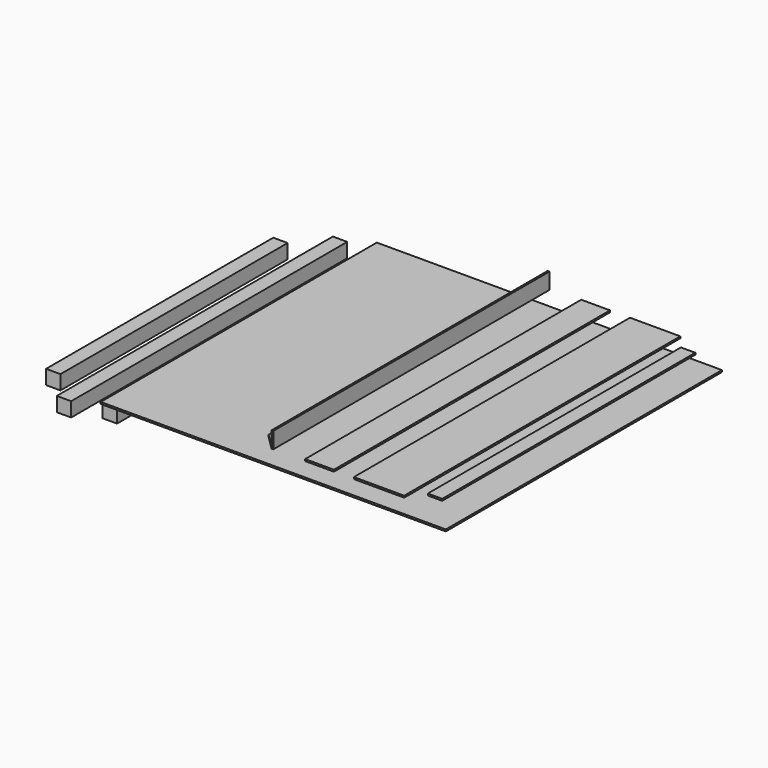
from build123d import *

# Parameters (mm, degrees)
F0_W      = 1219.2
F0_H      = 1219.2
F1_DEPTH  = 6.35
F3_W      = 177.8
F3_H      = 914.4
F4_DEPTH  = 6.35
F5_W      = 101.6
F5_H      = 914.4
F6_DEPTH  = 6.35
F7_R      = 12.7
F8_DEPTH  = 6.35
F9_W      = 50.8
F9_H      = 609.6
F10_DEPTH = 50.8
F11_W     = 50.8
F11_H     = 1219.2
F12_DEPTH = 50.8
F13_W     = 50.8
F13_H     = 1117.6
F14_DEPTH = 50.8
F15_W     = 25.4
F15_H     = 50.8
F16_DEPTH = 6.35
F18_DEPTH = 25.4
F19_DEPTH = 50.8
F22_DEPTH = 25.4
F23_R     = 4.7625
F24_DEPTH = 25.4
F25_W     = 3.175
F25_H     = 50.8
F25_R     = 4.7625
F27_DEPTH = 25.4
F28_DEPTH = 6.35
F30_DEPTH = 50.8
F32_DEPTH = 6.35
F34_DEPTH = 50.8
F36_DEPTH = 50.8
F35_W     = 6.35
F35_H     = 152.4
F39_W     = 6.35
F39_H     = 609.6
F40_DEPTH = 6.35
F41_DEPTH = 57.15
F42_W     = 177.8
F42_H     = 1219.2
F43_DEPTH = 6.35
F42_W_2   = 101.6
F42_W_3   = 50.8
F42_H_2   = 1117.6


with BuildPart() as f1:
    # F0 (on Top) → F1 (new body)
    with BuildSketch(Plane.XY):
        Rectangle(F0_W, F0_H)
    extrude(amount=F1_DEPTH)

    # F7 (on face) → F8 (join)
    with BuildSketch(Plane(origin=(0, 0, 0), x_dir=(1, 0, 0), z_dir=(0, 0, -1))):
        with BuildLine():
            ThreePointArc((317.5, 0), (304.8, 12.7), (292.1, 0))
            ThreePointArc((292.1, 0), (304.8, -12.7), (317.5, 0))
        make_face()
        with Locations((-304.8, 0)):
            Circle(F7_R)
    extrude(amount=F8_DEPTH)


with BuildPart() as f4:
    # F3 (on offset) → F4 (new body)
    with BuildSketch(Plane(origin=(0, 0, -25.4), x_dir=(1, 0, 0), z_dir=(0, 0, -1))):
        with Locations((-393.7, 0)):
            Rectangle(F3_W, F3_H)
    extrude(amount=F4_DEPTH)


with BuildPart() as f6:
    # F5 (on offset) → F6 (new body)
    with BuildSketch(Plane(origin=(0, 0, -25.4), x_dir=(1, 0, 0), z_dir=(0, 0, -1))):
        with Locations((-204.6257775556, 0)):
            Rectangle(F5_W, F5_H)
    extrude(amount=F6_DEPTH)


with BuildPart() as f10:
    # F9 (on offset) → F10 (new body)
    with BuildSketch(Plane(origin=(0, 0, -25.4), x_dir=(1, 0, 0), z_dir=(0, 0, -1))):
        with Locations((-542.2588756007, 0)):
            Rectangle(F9_W, F9_H)
    extrude(amount=F10_DEPTH)


with BuildPart() as f12:
    # F11 (on offset) → F12 (new body)
    with BuildSketch(Plane(origin=(0, 0, -25.4), x_dir=(1, 0, 0), z_dir=(0, 0, -1))):
        with Locations((-739.4879607756, 0)):
            Rectangle(F11_W, F11_H)
    extrude(amount=F12_DEPTH)


with BuildPart() as f14:
    # F13 (on offset) → F14 (new body)
    with BuildSketch(Plane(origin=(0, 0, -25.4), x_dir=(1, 0, 0), z_dir=(0, 0, -1))):
        with Locations((-617.9012233273, 0)):
            Rectangle(F13_W, F13_H)
    extrude(amount=F14_DEPTH)


with BuildPart() as f16:
    # F15 (on offset) → F16 (new body)
    with BuildSketch(Plane(origin=(0, 0, -25.4), x_dir=(1, 0, 0), z_dir=(0, 0, -1))):
        with Locations((41.6217231725, 0)):
            Rectangle(F15_W, F15_H)
    extrude(amount=F16_DEPTH)

    # F17 (on face) → F18 (join)
    with BuildSketch(Plane(origin=(0, 25.4, 0), x_dir=(-1, 0, 0), z_dir=(0, 1, 0))):
        with BuildLine():
            ThreePointArc((-28.9217231725, -38.1), (-24.4315951119, -36.2401280605), (-22.5717231725, -31.75))
            ThreePointArc((-22.5717231725, -31.75), (-24.4315951119, -27.2598719395), (-28.9217231725, -25.4))
            Line((-28.9217231725, -25.4), (-28.9217231725, -28.575))
            ThreePointArc((-28.9217231725, -28.575), (-26.6766591422, -29.5049359697), (-25.7467231725, -31.75))
            ThreePointArc((-25.7467231725, -31.75), (-26.6766591422, -33.9950640303), (-28.9217231725, -34.925))
            Line((-28.9217231725, -34.925), (-28.9217231725, -38.1))
        make_face()
        with BuildLine():
            Line((-28.9217231725, -28.575), (-28.9217231725, -25.4))
            ThreePointArc((-28.9217231725, -25.4), (-35.2717231725, -31.75), (-28.9217231725, -38.1))
            Line((-28.9217231725, -38.1), (-28.9217231725, -34.925))
            ThreePointArc((-28.9217231725, -34.925), (-32.0967231725, -31.75), (-28.9217231725, -28.575))
        make_face()
    extrude(amount=-F18_DEPTH)

    # F17 (on face) → F19 (cut)
    with BuildSketch(Plane(origin=(0, 25.4, 0), x_dir=(-1, 0, 0), z_dir=(0, 1, 0))):
        with BuildLine():
            ThreePointArc((-25.7467231725, -31.75), (-26.6766591422, -29.5049359697), (-28.9217231725, -28.575))
            Line((-28.9217231725, -28.575), (-28.9217231725, -31.75))
            Line((-28.9217231725, -31.75), (-28.9217231725, -34.925))
            ThreePointArc((-28.9217231725, -34.925), (-26.6766591422, -33.9950640303), (-25.7467231725, -31.75))
        make_face()
        with BuildLine():
            ThreePointArc((-32.0967231725, -31.75), (-31.1667872027, -33.9950640303), (-28.9217231725, -34.925))
            Line((-28.9217231725, -34.925), (-28.9217231725, -31.75))
            Line((-28.9217231725, -31.75), (-32.0967231725, -31.75))
        make_face()
        with BuildLine():
            Line((-28.9217231725, -31.75), (-28.9217231725, -28.575))
            ThreePointArc((-28.9217231725, -28.575), (-31.1667872027, -29.5049359697), (-32.0967231725, -31.75))
            Line((-32.0967231725, -31.75), (-28.9217231725, -31.75))
        make_face()
    extrude(amount=-F19_DEPTH, mode=Mode.SUBTRACT)

    # F17 (on face) → F20 (revolve)
    with BuildSketch(Plane(origin=(0, 25.4, 0), x_dir=(-1, 0, 0), z_dir=(0, 1, 0))):
        with BuildLine():
            ThreePointArc((-28.9217231725, -38.1), (-24.4315951119, -36.2401280605), (-22.5717231725, -31.75))
            ThreePointArc((-22.5717231725, -31.75), (-24.4315951119, -27.2598719395), (-28.9217231725, -25.4))
            Line((-28.9217231725, -25.4), (-28.9217231725, -28.575))
            ThreePointArc((-28.9217231725, -28.575), (-26.6766591422, -29.5049359697), (-25.7467231725, -31.75))
            ThreePointArc((-25.7467231725, -31.75), (-26.6766591422, -33.9950640303), (-28.9217231725, -34.925))
            Line((-28.9217231725, -34.925), (-28.9217231725, -38.1))
        make_face()
    revolve(axis=Axis((28.9217231725, 25.4, -31.75), (0, 0, 1)))

    # F21 (on face) → F22 (cut)
    with BuildSketch(Plane.XZ.offset(25.4)):
        Polygon((28.9217231725, -31.75), (31.9659225643, -31.75), (35.2679225643, -31.75), (35.2679225643, -25.4), (28.9217231725, -25.4), align=None)
    extrude(amount=-F22_DEPTH, mode=Mode.SUBTRACT)

    # F23 (on face) → F24 (cut)
    with BuildSketch(Plane(origin=(0, 0, -31.75), x_dir=(1, 0, 0), z_dir=(0, 0, -1))):
        with Locations((44.7967231725, 12.7)):
            Circle(F23_R)
        with BuildLine():
            ThreePointArc((49.5592231725, -12.7), (41.4291271271, -9.3324039546), (44.7967231725, -17.4625))
            ThreePointArc((44.7967231725, -17.4625), (48.1643192179, -16.0675960454), (49.5592231725, -12.7))
        make_face()
    extrude(amount=-F24_DEPTH, mode=Mode.SUBTRACT)


with BuildPart() as f26:
    # F25 (on offset) → F26 (revolve)
    with BuildSketch(Plane(origin=(0, 0, -25.4), x_dir=(1, 0, 0), z_dir=(0, 0, -1))):
        with Locations((-1.5875, 0)):
            Rectangle(F25_W, F25_H)
    revolve(axis=Axis((0, 0, -25.4), (0, 1, 0)))


with BuildPart() as f27:
    # F25 (on offset) → F27 (new body)
    with BuildSketch(Plane(origin=(0, 0, -25.4), x_dir=(1, 0, 0), z_dir=(0, 0, -1))):
        with Locations((-18.1485898793, 0)):
            Circle(F25_R)
    extrude(amount=-F27_DEPTH)

    # F25 (on offset) → F28 (join)
    with BuildSketch(Plane(origin=(0, 0, -25.4), x_dir=(1, 0, 0), z_dir=(0, 0, -1))):
        Polygon((-18.6110836574, -8.235916358), (-11.2473239789, -4.5184895399), (-10.7848302008, 3.7174268181), (-17.6860961012, 8.235916358), (-25.0498557797, 4.5184895399), (-25.5123495578, -3.7174268181), align=None)
        with Locations((-18.1485898793, 0)):
            Circle(F25_R, mode=Mode.SUBTRACT)
        with Locations((-18.1485898793, 0)):
            Circle(F25_R)
    extrude(amount=F28_DEPTH)


with BuildPart() as f30:
    # F29 (on offset) → F30 (new body)
    with BuildSketch(Plane(origin=(0, 0, -25.4), x_dir=(1, 0, 0), z_dir=(0, 0, -1))):
        Polygon((-889, 501.65), (-889, -501.65), (-838.2, -501.65), (-838.2, 0), (-838.2, 501.65), align=None)
    extrude(amount=F30_DEPTH)


with BuildPart() as f32:
    # F31 (on offset) → F32 (new body)
    with BuildSketch(Plane(origin=(0, 0, -25.4), x_dir=(1, 0, 0), z_dir=(0, 0, -1))):
        Polygon((-127, 38.1), (-127, -38.1), (-50.8, -38.1), (-50.8, 0), (-50.8, 38.1), align=None)
    extrude(amount=F32_DEPTH)


with BuildPart() as f34:
    # F33 (on offset) → F34 (new body)
    with BuildSketch(Plane(origin=(0, 0, -25.4), x_dir=(1, 0, 0), z_dir=(0, 0, -1))):
        Polygon((96.6773392951, -57.15), (147.4773392951, -57.15), (147.4773392951, 57.15), (122.0773392951, 57.15), (96.6773392951, 57.15), align=None)
        with BuildLine():
            ThreePointArc((128.4273392951, 31.75), (117.5872112345, 27.2598719395), (122.0773392951, 38.1))
            ThreePointArc((122.0773392951, 38.1), (126.5674673556, 36.2401280605), (128.4273392951, 31.75))
        make_face(mode=Mode.SUBTRACT)
    extrude(amount=F34_DEPTH)


with BuildPart() as f36:
    # F35 (on offset) → F36 (new body)
    with BuildSketch(Plane(origin=(0, 0, -25.4), x_dir=(1, 0, 0), z_dir=(0, 0, -1))):
        Polygon((209.1001823967, -25.4), (259.9001823967, -25.4), (259.9001823967, 25.4), (234.5001823967, 25.4), (209.1001823967, 25.4), align=None)
        with BuildLine():
            ThreePointArc((240.8501823967, 0), (230.0100543362, -4.4901280605), (234.5001823967, 6.35))
            ThreePointArc((234.5001823967, 6.35), (238.9903104573, 4.4901280605), (240.8501823967, 0))
        make_face(mode=Mode.SUBTRACT)
    extrude(amount=F36_DEPTH)


with BuildPart() as f37:
    # F35 (on offset) → F37 (revolve)
    with BuildSketch(Plane(origin=(0, 0, -25.4), x_dir=(1, 0, 0), z_dir=(0, 0, -1))):
        with Locations((273.4728253365, 0)):
            Rectangle(F35_W, F35_H)
        Polygon((270.2978253365, 76.2), (276.6478253365, 76.2), (282.9978253365, 76.2), (282.9978253365, 85.8596041799), (270.2978253365, 85.8596041799), align=None)
    revolve(axis=Axis((270.2978253365, 0, -25.4), (0, 1, 0)))


with BuildPart() as f40:
    # F39 (on offset) → F40 (new body)
    with BuildSketch(Plane.XY.offset(57.15)):
        with Locations((-3.175, 304.8)):
            Rectangle(F39_W, F39_H)
        with Locations((-3.175, -304.8)):
            Rectangle(F39_W, F39_H)
        Polygon((-6.35, -609.6), (-6.35, 0), (-57.15, 0), (-57.15, -558.8), align=None)
        Polygon((-57.15, 0), (-6.35, 0), (-6.35, 609.6), (-57.15, 558.8), align=None)
    extrude(amount=F40_DEPTH)

    # F39 (on offset) → F41 (join)
    with BuildSketch(Plane.XY.offset(57.15)):
        with Locations((-3.175, 304.8)):
            Rectangle(F39_W, F39_H)
        with Locations((-3.175, -304.8)):
            Rectangle(F39_W, F39_H)
    extrude(amount=F41_DEPTH)


with BuildPart() as f43:
    # F42 (on offset) → F43 (new body)
    with BuildSketch(Plane.XY.offset(57.15)):
        with Locations((373.566137178, 0)):
            Rectangle(F42_W, F42_H)
    extrude(amount=F43_DEPTH)


with BuildPart() as f43b:
    # F42 (on offset) → F43, piece 2 (new body)
    with BuildSketch(Plane.XY.offset(57.15)):
        with Locations((163.3827835321, 0)):
            Rectangle(F42_W_2, F42_H)
    extrude(amount=F43_DEPTH)


with BuildPart() as f43c:
    # F42 (on offset) → F43, piece 3 (new body)
    with BuildSketch(Plane.XY.offset(57.15)):
        with Locations((530.7464003563, 0)):
            Rectangle(F42_W_3, F42_H_2)
    extrude(amount=F43_DEPTH)


solid = Compound([f1.part, f4.part, f6.part, f10.part, f12.part, f14.part, f16.part, f26.part, f27.part, f30.part, f32.part, f34.part, f36.part, f37.part, f40.part, f43.part, f43b.part, f43c.part])
